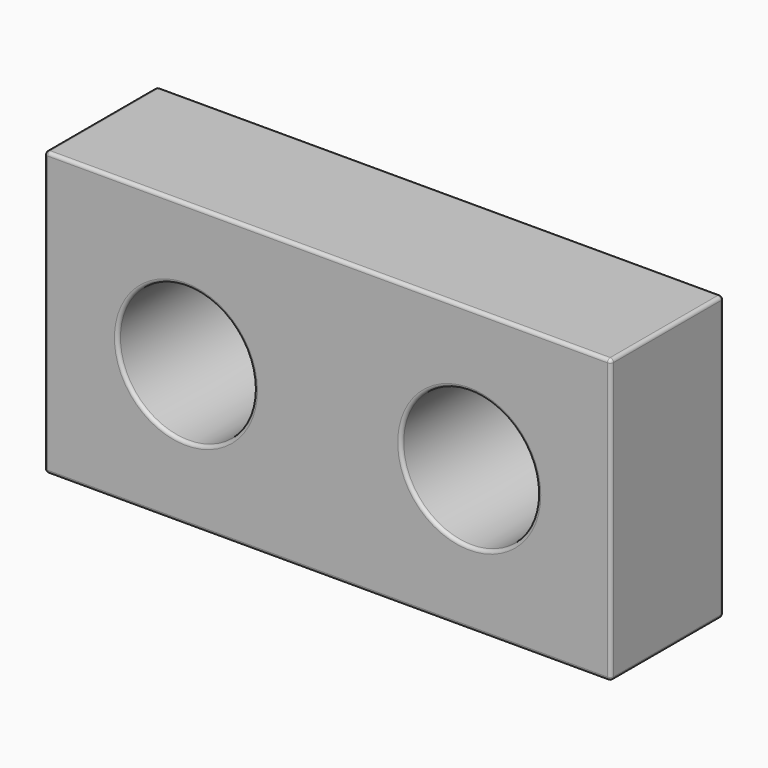
from build123d import *

# Parameters (mm, degrees)
F0_W     = 85.725
F0_H     = 42.8625
F0_R     = 10.31875
F1_DEPTH = 21.336
F2_R     = 0.508


with BuildPart() as f1:
    # F0 (on Front) → F1 (new body)
    with BuildSketch(Plane.XZ):
        Rectangle(F0_W, F0_H)
        with Locations((-21.43125, 0)):
            Circle(F0_R, mode=Mode.SUBTRACT)
        with Locations((21.43125, 0)):
            Circle(F0_R, mode=Mode.SUBTRACT)
    extrude(amount=F1_DEPTH)

    # F2
    f2_edges = [f1.edges().sort_by_distance(p)[0] for p in [
        (0, -21.336, 21.43125),
        (0, 0, 21.43125),
        (-42.8625, -10.668, 21.43125),
        (42.8625, -10.668, 21.43125),
        (42.8625, -21.336, 0),
        (42.8625, 0, 0),
        (42.8625, -10.668, -21.43125),
        (0, -21.336, -21.43125),
        (-42.8625, -21.336, 0),
        (11.1125, -21.336, 0),
        (-31.75, -21.336, 0),
        (-42.8625, -10.668, -21.43125),
        (-42.8625, 0, 0),
        (0, 0, -21.43125),
        (-31.75, 0, 0),
        (11.1125, 0, 0),
    ]]
    fillet(f2_edges, radius=F2_R)


solid = f1.part
